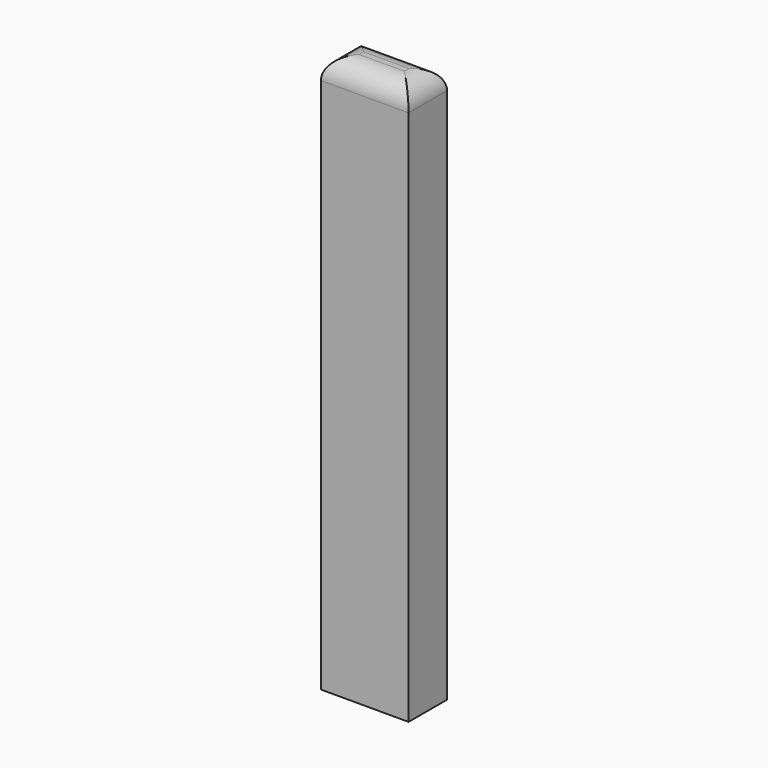
from build123d import *

# Parameters (mm, degrees)
F0_W      = 80.944866
F0_H      = 514.817506
F1_DEPTH  = 44.45
F2_R      = 19.5326
F1_FACE_W = 80.944866
F1_FACE_H = 44.45
F3_DEPTH  = 62.526703


with BuildPart() as f1:
    # F0 (on Front) → F1 (new body)
    with BuildSketch(Plane.XZ):
        with Locations((-40.472433, 220.22967)):
            Rectangle(F0_W, F0_H)
    extrude(amount=F1_DEPTH)

    # F2
    f2_edges = [f1.edges().sort_by_distance(p)[0] for p in [
        (0, -22.225, 477.638423),
        (-80.944866, -22.225, 477.638423),
        (-40.472433, 0, 477.638423),
        (-40.472433, -44.45, 477.638423),
    ]]
    fillet(f2_edges, radius=F2_R)

    # F1_face (on face) → F3 (join)
    with BuildSketch(Plane(origin=(-40.472433, -22.225, -37.179083), x_dir=(1, 0, 0), z_dir=(0, 0, -1))):
        Rectangle(F1_FACE_W, F1_FACE_H)
    extrude(amount=-F3_DEPTH)


solid = f1.part
